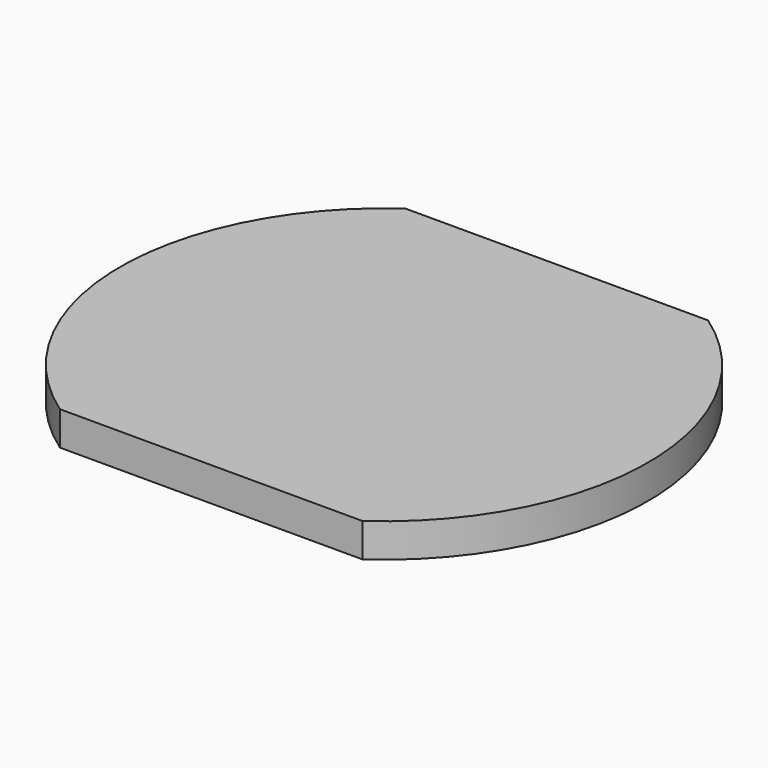
from build123d import *

# Parameters (mm, degrees)
PAD_1_DEPTH = 5


with BuildPart() as part:
    # Sketch_1 → Pad_1 (new body)
    with BuildSketch(Plane.XY):
        with BuildLine():
            ThreePointArc((22.449938, -25.326797), (39.053136, 6.744148), (22.261972, 38.717082))
            Line((22.261972, 38.717082), (-22.450773, 38.717082))
            ThreePointArc((-22.450773, 38.717082), (-39.053018, 6.645921), (-22.261972, -25.326797))
            Line((-22.261972, -25.326797), (22.449938, -25.326797))
        make_face()
    extrude(amount=PAD_1_DEPTH)


solid = part.part
